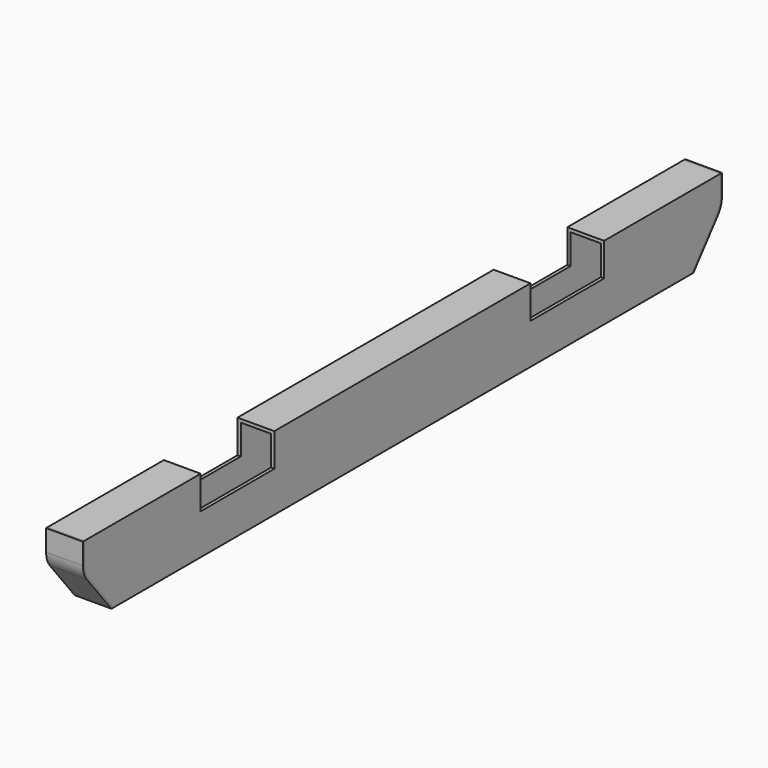
from build123d import *

# Parameters (mm, degrees)
F0_W     = 100
F0_H     = 200
F0_W_2   = 82
F0_H_2   = 182
F1_DEPTH = 1080
F2_W     = 250
F2_H     = 223.694717288
F3_DEPTH = 100.001
F5_DEPTH = 100.001
F6_DEPTH = 100


with BuildPart() as f1:
    # F0 (on Front) → F1 (new body, symmetric)
    with BuildSketch(Plane.XZ):
        Rectangle(F0_W, F0_H)
        Rectangle(F0_W_2, F0_H_2, mode=Mode.SUBTRACT)
    extrude(amount=F1_DEPTH, both=True)

    # F2 (on face) → F3 (cut, through all)
    with BuildSketch(Plane(origin=(-50, 0, 0), x_dir=(0, -1, 0), z_dir=(-1, 0, 0))):
        with BuildLine():
            Line((-981.5, -208.9942991734), (-981.5, -100))
            Line((-981.5, -100), (-1067.4243940422, 7.0831383014))
            ThreePointArc((-1067.4243940422, 7.0831383014), (-1076.789487617, 23.964114381), (-1080, 43))
            Line((-1080, 43), (-1186.2337589264, 43))
            Line((-1186.2337589264, 43), (-1186.2337589264, -208.9942991734))
            Line((-1186.2337589264, -208.9942991734), (-981.5, -208.9942991734))
        make_face()
        with Locations((-560, 121.847358644)):
            Rectangle(F2_W, F2_H)
        with BuildLine():
            Line((981.5, -100), (981.5, -208.9942991734))
            Line((981.5, -208.9942991734), (1186.2337589264, -208.9942991734))
            Line((1186.2337589264, -208.9942991734), (1186.2337589264, 43))
            Line((1186.2337589264, 43), (1080, 43))
            ThreePointArc((1080, 43), (1076.789487617, 23.964114381), (1067.4243940422, 7.0831383014))
            Line((1067.4243940422, 7.0831383014), (981.5, -100))
        make_face()
        with Locations((560, 121.847358644)):
            Rectangle(F2_W, F2_H)
    extrude(amount=-F3_DEPTH, mode=Mode.SUBTRACT)

    # F4 (on face) → F5 (cut, through all)
    with BuildSketch(Plane(origin=(-50, 0, 0), x_dir=(0, -1, 0), z_dir=(-1, 0, 0))):
        with BuildLine():
            Line((-987.9106532549, -100), (-981.5, -100))
            Line((-981.5, -100), (-1067.4243940422, 7.0831383014))
            ThreePointArc((-1067.4243940422, 7.0831383014), (-1076.7397327432, 23.8226064615), (-1080, 42.7))
            Line((-1080, 42.7), (-1080, 100))
            Line((-1080, 100), (-1085, 100))
            Line((-1085, 100), (-1085, 42.6935758952))
            ThreePointArc((-1085, 42.6935758952), (-1081.4555938979, 22.1610818945), (-1071.3241526169, 3.9539398323))
            Line((-1071.3241526169, 3.9539398323), (-987.9106532549, -100))
        make_face()
        with BuildLine():
            Line((1085, 42.6935758952), (1085, 100))
            Line((1085, 100), (1080, 100))
            Line((1080, 100), (1080, 42.7))
            ThreePointArc((1080, 42.7), (1076.7397327432, 23.8226064615), (1067.4243940422, 7.0831383014))
            Line((1067.4243940422, 7.0831383014), (981.5, -100))
            Line((981.5, -100), (987.9106532549, -100))
            Line((987.9106532549, -100), (1071.3241526169, 3.9539398323))
            ThreePointArc((1071.3241526169, 3.9539398323), (1081.4555938979, 22.1610818945), (1085, 42.6935758952))
        make_face()
    extrude(amount=-F5_DEPTH, mode=Mode.SUBTRACT)


with BuildPart() as f6:
    # F4 (on face) → F6 (new body, through all)
    with BuildSketch(Plane(origin=(-50, 0, 0), x_dir=(0, -1, 0), z_dir=(-1, 0, 0))):
        with BuildLine():
            Line((-987.9106532549, -100), (-981.5, -100))
            Line((-981.5, -100), (-1067.4243940422, 7.0831383014))
            ThreePointArc((-1067.4243940422, 7.0831383014), (-1076.7397327432, 23.8226064615), (-1080, 42.7))
            Line((-1080, 42.7), (-1080, 100))
            Line((-1080, 100), (-1085, 100))
            Line((-1085, 100), (-1085, 42.6935758952))
            ThreePointArc((-1085, 42.6935758952), (-1081.4555938979, 22.1610818945), (-1071.3241526169, 3.9539398323))
            Line((-1071.3241526169, 3.9539398323), (-987.9106532549, -100))
        make_face()
    extrude(amount=-F6_DEPTH)


with BuildPart() as f6b:
    # F4 (on face) → F6, piece 2 (new body, through all)
    with BuildSketch(Plane(origin=(-50, 0, 0), x_dir=(0, -1, 0), z_dir=(-1, 0, 0))):
        with BuildLine():
            Line((1085, 42.6935758952), (1085, 100))
            Line((1085, 100), (1080, 100))
            Line((1080, 100), (1080, 42.7))
            ThreePointArc((1080, 42.7), (1076.7397327432, 23.8226064615), (1067.4243940422, 7.0831383014))
            Line((1067.4243940422, 7.0831383014), (981.5, -100))
            Line((981.5, -100), (987.9106532549, -100))
            Line((987.9106532549, -100), (1071.3241526169, 3.9539398323))
            ThreePointArc((1071.3241526169, 3.9539398323), (1081.4555938979, 22.1610818945), (1085, 42.6935758952))
        make_face()
    extrude(amount=-F6_DEPTH)


solid = Compound([f1.part, f6.part, f6b.part])
